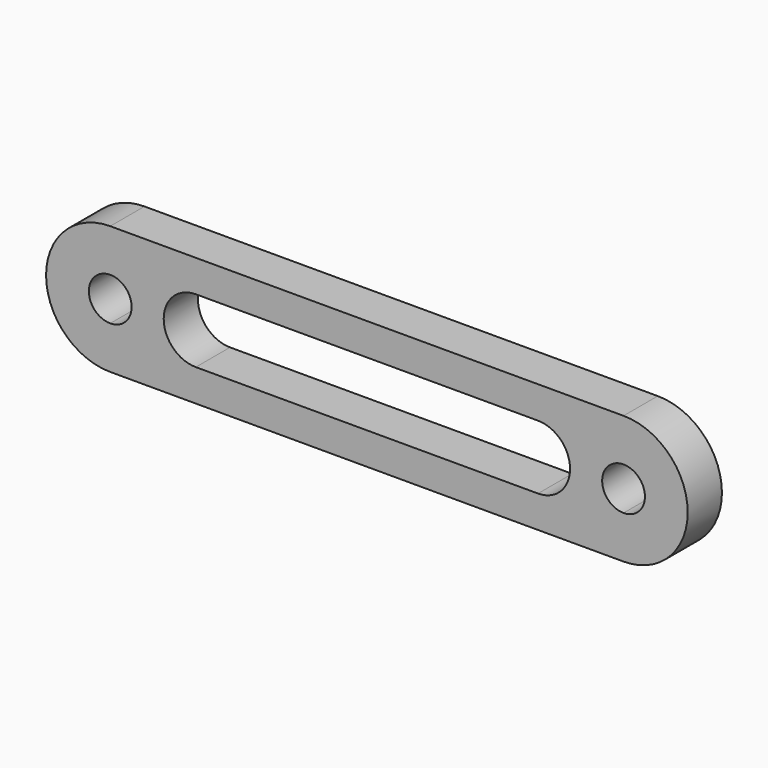
from build123d import *

# Parameters (mm, degrees)
F1_DEPTH = 6.35


with BuildPart() as f1:
    # F0 (on Front) → F1 (new body)
    with BuildSketch(Plane.XZ):
        with BuildLine():
            Line((0, 6.35), (0, 0))
            Line((0, 0), (76.2, 0))
            Line((76.2, 0), (76.2, 6.35))
            ThreePointArc((76.2, 6.35), (73.025, 9.525), (76.2, 12.7))
            Line((76.2, 12.7), (76.2, 19.05))
            Line((76.2, 19.05), (0, 19.05))
            Line((0, 19.05), (0, 12.7))
            ThreePointArc((0, 12.7), (2.245064, 11.770064), (3.175, 9.525))
            ThreePointArc((3.175, 9.525), (2.245064, 7.279936), (0, 6.35))
        make_face()
        with BuildLine():
            ThreePointArc((12.7, 4.7625), (7.9375, 9.525), (12.7, 14.2875))
            Line((12.7, 14.2875), (63.5, 14.2875))
            ThreePointArc((63.5, 14.2875), (68.2625, 9.525), (63.5, 4.7625))
            Line((63.5, 4.7625), (12.7, 4.7625))
        make_face(mode=Mode.SUBTRACT)
        with BuildLine():
            ThreePointArc((0, 19.05), (-9.525, 9.525), (0, 0))
            Line((0, 0), (0, 6.35))
            ThreePointArc((0, 6.35), (-3.175, 9.525), (0, 12.7))
            Line((0, 12.7), (0, 19.05))
        make_face()
        with BuildLine():
            Line((76.2, 6.35), (76.2, 0))
            ThreePointArc((76.2, 0), (85.725, 9.525), (76.2, 19.05))
            Line((76.2, 19.05), (76.2, 12.7))
            ThreePointArc((76.2, 12.7), (78.445064, 11.770064), (79.375, 9.525))
            ThreePointArc((79.375, 9.525), (78.445064, 7.279936), (76.2, 6.35))
        make_face()
    extrude(amount=F1_DEPTH)


solid = f1.part
